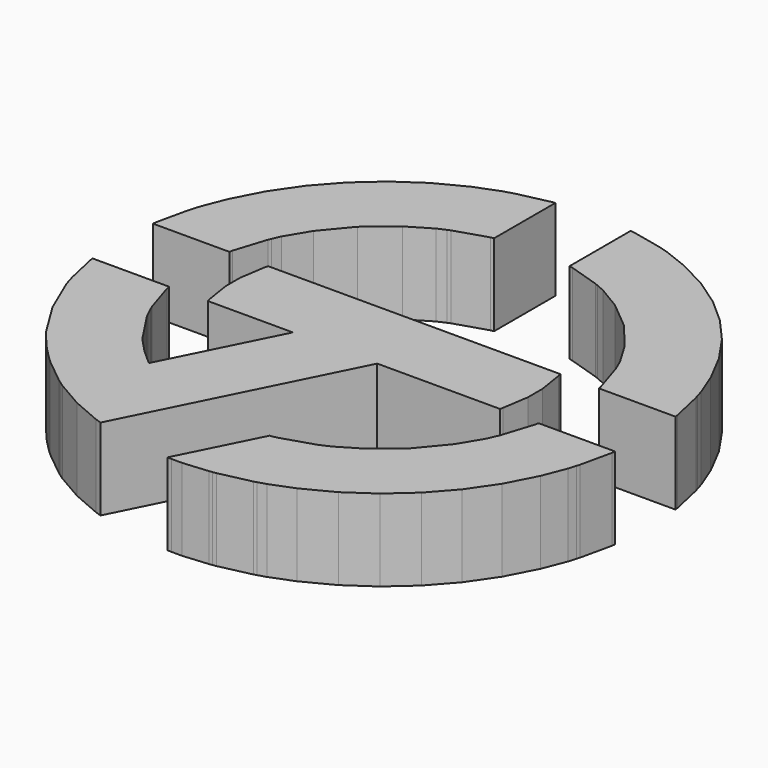
from build123d import *

# Parameters (mm, degrees)
F1_DEPTH = 8


with BuildPart() as f1:
    # F0 (on Top) → F1 (new body)
    with BuildSketch(Plane.XY):
        Polygon((-17.024468, 7.21208), (-16.895009, 7.504593), (-16.55069, 8.291784), (-15.220021, 10.521496), (-13.02896, 13.159676), (-10.390892, 15.350737), (-8.161084, 16.682233), (-7.374052, 17.0266), (-7.08138, 17.156075), (-4.007533, 18.133026), (-3.687503, 18.1984), (-3.687503, 25.678704), (-4.003238, 25.633849), (-7.075336, 24.95116), (-7.374052, 24.858746), (-8.147246, 24.629222), (-10.406416, 23.744685), (-13.246428, 22.273374), (-15.867238, 20.47408), (-18.242093, 18.373525), (-20.342537, 15.99875), (-22.141799, 13.377907), (-23.613158, 10.537243), (-24.497694, 8.277787), (-24.727235, 7.504593), (-24.81957, 7.206195), (-25.502178, 4.133939), (-25.547049, 3.818203), (-18.06692, 3.818203), (-18.001323, 4.138233), align=None)
        Polygon((-8.119569, -24.366151), (2.285861, -3.554894), (14.281102, -3.554894), (14.356178, -3.259837), (14.747945, -0.716775), (14.747945, 0.1307), (14.747945, 1.053252), (14.356178, 3.524736), (14.281102, 3.818999), (-14.281117, 3.818999), (-14.357069, 3.524736), (-14.747976, 0.979766), (-14.747976, 0.1307), (-14.747976, -0.790102), (-14.357069, -3.259837), (-14.281117, -3.554894), (-5.964774, -3.554894), (-11.372932, -14.362716), (-11.627524, -14.163381), (-12.829625, -13.092441), (-13.941093, -11.923139), (-14.149956, -11.675465), (-14.377763, -11.402772), (-16.332379, -8.4239), (-16.493731, -8.102756), (-16.529122, -8.031179), (-16.864819, -7.314134), (-16.895009, -7.243352), (-17.024468, -6.949885), (-18.001323, -3.874288), (-18.06692, -3.554894), (-25.547049, -3.554894), (-25.502178, -3.869993), (-24.820444, -6.94384), (-24.72811, -7.243352), (-24.49682, -8.025135), (-22.91415, -11.732425), (-20.811989, -15.129038), (-20.320094, -15.756389), (-20.117307, -16.017869), (-19.042932, -17.272619), (-17.890872, -18.448825), (-17.648384, -18.672353), (-17.419686, -18.888945), (-14.974065, -20.876329), (-14.715178, -21.057547), (-14.213803, -21.407066), (-11.553291, -22.942272), (-8.711593, -24.169393), align=None)
        Polygon((16.548988, 8.291784), (16.89415, 7.504593), (17.022671, 7.21208), (18.000417, 4.138233), (18.066109, 3.818203), (25.547049, 3.818203), (25.50124, 4.133939), (24.818552, 7.206195), (24.727092, 7.504593), (24.496772, 8.277787), (23.612236, 10.537243), (22.140925, 13.377907), (20.34179, 15.99875), (18.241235, 18.373525), (15.8663, 20.47408), (13.245617, 22.273374), (10.405589, 23.744685), (8.14645, 24.629222), (7.374052, 24.858746), (7.074541, 24.95116), (4.001489, 25.633849), (3.686549, 25.678704), (3.686549, 18.1984), (4.005783, 18.133026), (7.080426, 17.156075), (7.374052, 17.0266), (8.16013, 16.682233), (10.390001, 15.350737), (13.028022, 13.159676), (15.218128, 10.521496), align=None)
        Polygon((17.022671, -6.949885), (16.89415, -7.243352), (16.548988, -8.029429), (15.218128, -10.258489), (13.028022, -12.896542), (10.390001, -15.087603), (8.16013, -16.418288), (7.374052, -16.763466), (7.080426, -16.892066), (4.005783, -17.868921), (3.686549, -17.934502), (3.655532, -17.940562), (3.340592, -17.995788), (3.31037, -18.000099), (-0.532535, -25.670083), (-0.487521, -25.671801), (-0.122477, -25.678704), (0, -25.678704), (0.921756, -25.678704), (3.385447, -25.458659), (3.686549, -25.415506), (4.001489, -25.36976), (7.074541, -24.688026), (7.374052, -24.595692), (8.14645, -24.365276), (10.405589, -23.480756), (13.245617, -22.009397), (15.8663, -20.210135), (18.241235, -18.109691), (20.34179, -15.734836), (22.140925, -13.114026), (23.612236, -10.274873), (24.496772, -8.015591), (24.727092, -7.243352), (24.818552, -6.94384), (25.50124, -3.870948), (25.547049, -3.555849), (18.066109, -3.555849), (18.000417, -3.875242), align=None)
    extrude(amount=F1_DEPTH)


solid = f1.part
